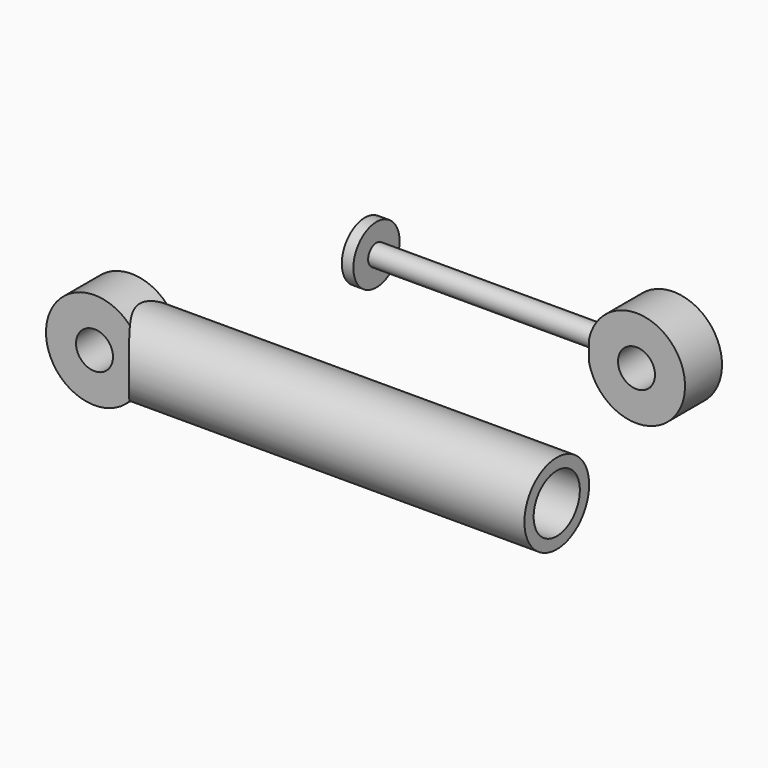
from build123d import *

# Parameters (mm, degrees)
F0_R      = 17.5
F0_R_2    = 12.5
F1_DEPTH  = 78
F2_R      = 21
F2_R_2    = 8
F3_DEPTH  = 20
F4_DEPTH  = 28
F5_R      = 4.5223485004
F6_DEPTH  = 100
F5_R_2    = 12.5
F6_FACE_R = 4.5223485004
F7_DEPTH  = 5
F9_DEPTH  = 10
F10_DEPTH = 10
F8_R      = 8
F11_DEPTH = 10


with BuildPart() as f1:
    # F0 (on Right) → F1 (new body, symmetric)
    with BuildSketch(Plane.YZ):
        Circle(F0_R)
        Circle(F0_R_2, mode=Mode.SUBTRACT)
    extrude(amount=F1_DEPTH, both=True)

    # F4 (add, through all): a face of the model
    f4_faces = [f1.faces().sort_by_distance(p)[0] for p in [
        (-78, -17.0050252532, 0),
    ]]


with BuildPart() as f3:
    # F2 (on Front) → F3 (new body, symmetric)
    with BuildSketch(Plane.XZ):
        with Locations((-114, 0)):
            Circle(F2_R)
        with Locations((-114, 0)):
            Circle(F2_R_2, mode=Mode.SUBTRACT)
    extrude(amount=F3_DEPTH, both=True)


with BuildPart() as f1_1:
    add(f1.part)

    add(f3.part)  # F4 merges F3
    extrude(f4_faces, amount=F4_DEPTH)

    # F9 (cut): a face of the model
    f9_faces = [f1_1.faces().sort_by_distance(p)[0] for p in [
        (-134.4060303038, 20, 0),
    ]]
    extrude(f9_faces, amount=-F9_DEPTH, mode=Mode.SUBTRACT)

    # F10 (cut): a face of the model
    f10_faces = [f1_1.faces().sort_by_distance(p)[0] for p in [
        (-134.4060303038, -20, 0),
    ]]
    extrude(f10_faces, amount=-F10_DEPTH, mode=Mode.SUBTRACT)


with BuildPart() as f6:
    # F5 (on Right) → F6 (new body)
    with BuildSketch(Plane.YZ):
        with Locations((0, 69.4091767073)):
            Circle(F5_R)
    extrude(amount=F6_DEPTH)

    # F5 (on Right) + F6_face (on face) → F7 (join)
    with BuildSketch(Plane.YZ):
        with Locations((0, 69.4091767073)):
            Circle(F5_R_2)
        with Locations((0, 69.4091767073)):
            Circle(F5_R, mode=Mode.SUBTRACT)
    with BuildSketch(Plane(origin=(0, 0, 69.4091767073), x_dir=(0, 1, 0), z_dir=(-1, 0, 0))):
        Circle(F6_FACE_R)
    extrude(amount=-F7_DEPTH, dir=(1, 0, 0))

    # F8 (on Front) → F11 (join, symmetric)
    with BuildSketch(Plane.XZ):
        with BuildLine():
            ThreePointArc((100, 64.8868282069), (122.7818314974, 48.5327211473), (141.5072758806, 69.4091767073))
            ThreePointArc((141.5072758806, 69.4091767073), (122.7818314974, 90.2856322672), (100, 73.9315252076))
            Line((100, 73.9315252076), (100, 64.8868282069))
        make_face()
        with Locations((120.5072758806, 69.4091767073)):
            Circle(F8_R, mode=Mode.SUBTRACT)
    extrude(amount=F11_DEPTH, both=True)


solid = Compound([f1_1.part, f6.part])
